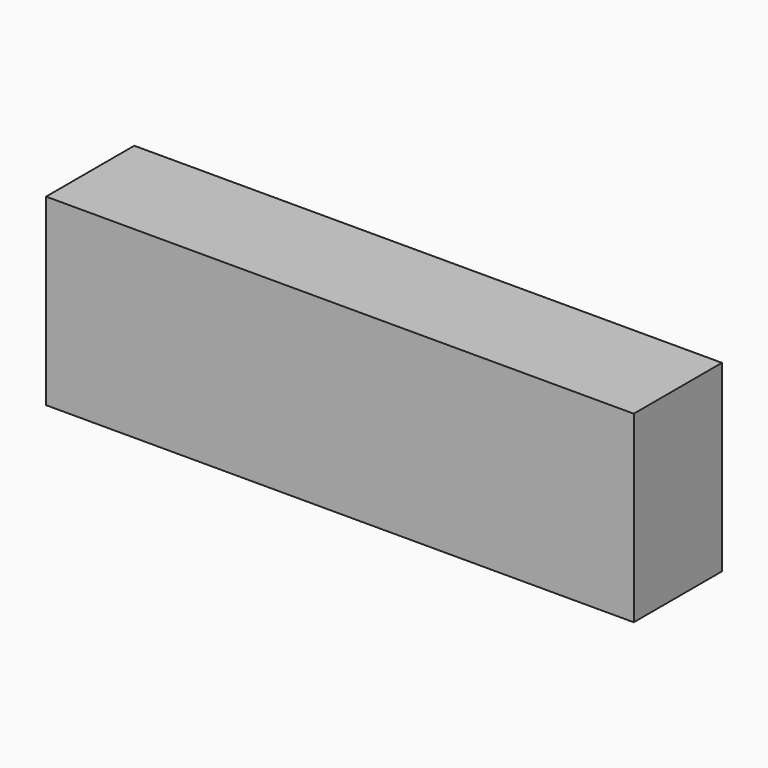
from build123d import *

# Parameters (mm, degrees)
SKETCH_W      = 160
SKETCH_H      = 30
EXTRUDE_DEPTH = 50


with BuildPart() as part:
    # Sketch → Extrude (new body)
    with BuildSketch(Plane.XY):
        Rectangle(SKETCH_W, SKETCH_H)
    extrude(amount=EXTRUDE_DEPTH)


solid = part.part
